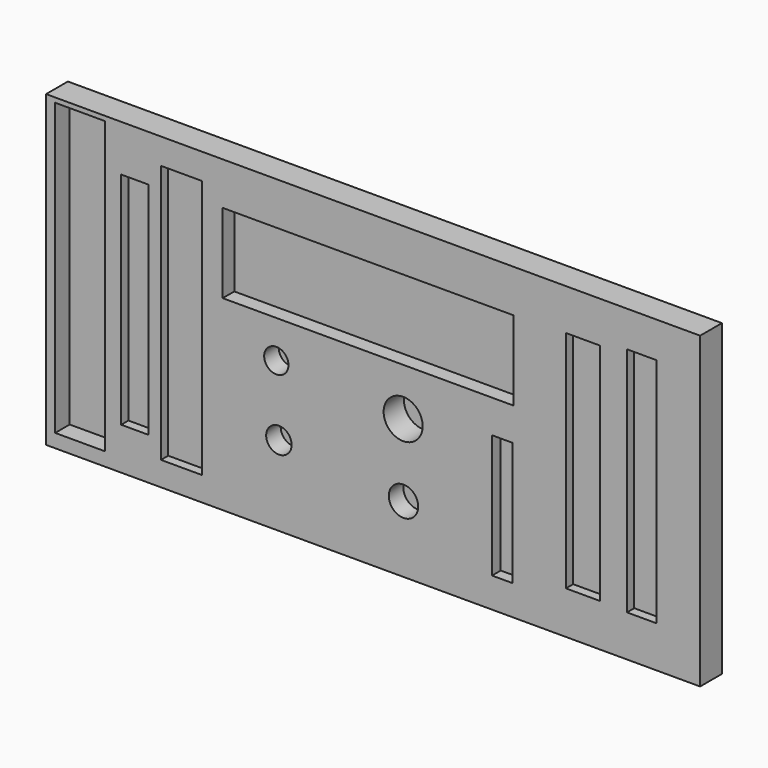
from build123d import *

# Parameters (mm, degrees)
F0_W      = 457.2
F0_H      = 215.903491
F1_DEPTH  = 19.05
F2_W      = 20.6375
F2_H      = 161.925
F3_DEPTH  = 6.35
F4_W      = 23.8125
F4_H      = 157.1625
F5_DEPTH  = 6.35
F6_W      = 203.2
F6_H      = 55.5625
F7_DEPTH  = 10.16
F8_W      = 14.2875
F8_H      = 86.36
F9_DEPTH  = 7.62
F10_W     = 34.925
F10_H     = 203.2
F11_DEPTH = 12.7
F12_W     = 19.05
F12_H     = 153.9875
F13_DEPTH = 6.35
F14_R     = 13.6525
F15_DEPTH = 17.78
F16_R     = 10.287
F17_DEPTH = 12.7
F18_R     = 8.89
F19_DEPTH = 12.7
F20_R     = 8.509
F21_DEPTH = 12.7
F22_W     = 28.575
F22_H     = 180.975
F23_DEPTH = 6.35


with BuildPart() as f1:
    # F0 (on Front) → F1 (new body)
    with BuildSketch(Plane.XZ):
        with Locations((228.6, 107.951746)):
            Rectangle(F0_W, F0_H)
    extrude(amount=-F1_DEPTH)

    # F2 (on Front) → F3 (cut)
    with BuildSketch(Plane.XZ):
        with Locations((416.386539, 109.953294)):
            Rectangle(F2_W, F2_H)
    extrude(amount=-F3_DEPTH, mode=Mode.SUBTRACT)

    # F4 (on face) → F5 (cut)
    with BuildSketch(Plane.XZ):
        with Locations((375.281944, 108.470284)):
            Rectangle(F4_W, F4_H)
    extrude(amount=-F5_DEPTH, mode=Mode.SUBTRACT)

    # F6 (on face) → F7 (cut)
    with BuildSketch(Plane.XZ):
        with Locations((225.059846, 158.248464)):
            Rectangle(F6_W, F6_H)
    extrude(amount=-F7_DEPTH, mode=Mode.SUBTRACT)

    # F8 (on face) → F9 (cut)
    with BuildSketch(Plane.XZ):
        with Locations((318.874671, 64.148307)):
            Rectangle(F8_W, F8_H)
    extrude(amount=-F9_DEPTH, mode=Mode.SUBTRACT)

    # F10 (on face) → F11 (cut)
    with BuildSketch(Plane.XZ):
        with Locations((23.808912, 111.051154)):
            Rectangle(F10_W, F10_H)
    extrude(amount=-F11_DEPTH, mode=Mode.SUBTRACT)

    # F12 (on face) → F13 (cut)
    with BuildSketch(Plane.XZ):
        with Locations((62.019332, 106.47686)):
            Rectangle(F12_W, F12_H)
    extrude(amount=-F13_DEPTH, mode=Mode.SUBTRACT)

    # F14 (on face) → F15 (cut)
    with BuildSketch(Plane.XZ):
        with Locations((249.594485, 97.142791)):
            Circle(F14_R)
    extrude(amount=-F15_DEPTH, mode=Mode.SUBTRACT)

    # F16 (on face) → F17 (cut)
    with BuildSketch(Plane.XZ):
        with Locations((249.844001, 46.58331)):
            Circle(F16_R)
    extrude(amount=-F17_DEPTH, mode=Mode.SUBTRACT)

    # F18 (on face) → F19 (cut)
    with BuildSketch(Plane.XZ):
        with Locations((162.750646, 55.861603)):
            Circle(F18_R)
    extrude(amount=-F19_DEPTH, mode=Mode.SUBTRACT)

    # F20 (on face) → F21 (cut)
    with BuildSketch(Plane.XZ):
        with Locations((160.950046, 104.224064)):
            Circle(F20_R)
    extrude(amount=-F21_DEPTH, mode=Mode.SUBTRACT)

    # F22 (on face) → F23 (cut)
    with BuildSketch(Plane.XZ):
        with Locations((94.598287, 107.38296)):
            Rectangle(F22_W, F22_H)
    extrude(amount=-F23_DEPTH, mode=Mode.SUBTRACT)


solid = f1.part
